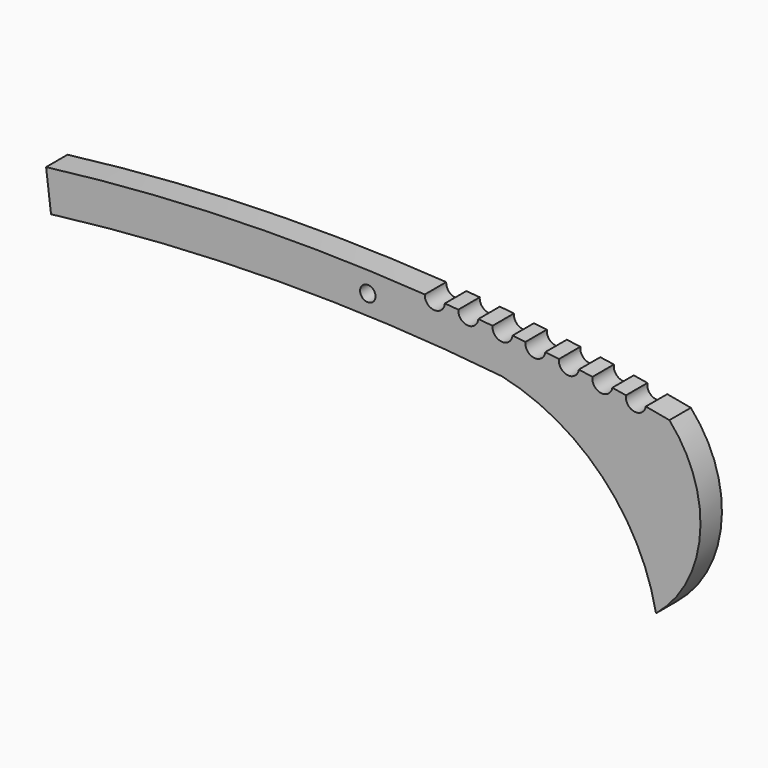
from build123d import *

# Parameters (mm, degrees)
F0_R     = 1.15
F1_DEPTH = 4


with BuildPart() as f1:
    # F0 (on Front) → F1 (new body)
    with BuildSketch(Plane.XZ):
        with BuildLine():
            ThreePointArc((83, -17.020984), (89.584854, -4.43975), (85, 9))
            ThreePointArc((85, 9), (83.239705, 9.329369), (81.477475, 9.648224))
            ThreePointArc((81.477475, 9.648224), (79.744723, 8.429077), (78.521248, 10.158776))
            ThreePointArc((78.521248, 10.158776), (77.501731, 10.327801), (76.481638, 10.493312))
            ThreePointArc((76.481638, 10.493312), (74.769723, 9.245075), (73.51721, 10.953864))
            ThreePointArc((73.51721, 10.953864), (72.501545, 11.104684), (71.48537, 11.252026))
            ThreePointArc((71.48537, 11.252026), (69.794723, 9.97513), (68.513604, 11.662579))
            ThreePointArc((68.513604, 11.662579), (67.501361, 11.795514), (66.488672, 11.925004))
            ThreePointArc((66.488672, 11.925004), (64.819723, 10.619876), (63.510427, 12.285557))
            ThreePointArc((63.510427, 12.285557), (62.551942, 12.395171), (61.59311, 12.501703))
            ThreePointArc((61.59311, 12.501703), (59.945831, 11.169329), (58.609343, 12.813272))
            ThreePointArc((58.609343, 12.813272), (57.551852, 12.916464), (56.494002, 13.015909))
            ThreePointArc((56.494002, 13.015909), (54.869723, 11.655589), (53.505347, 13.276462))
            ThreePointArc((53.505347, 13.276462), (52.500823, 13.35728), (51.496033, 13.434723))
            ThreePointArc((51.496033, 13.434723), (49.894723, 12.04744), (48.50344, 13.645276))
            ThreePointArc((48.50344, 13.645276), (20.212883, 14.156434), (-8, 12))
            Line((-8, 12), (-7.261107, 6.045671))
            ThreePointArc((-7.261107, 6.045671), (26.35243, 8.272106), (60, 6.638735))
            ThreePointArc((60, 6.638735), (75.044992, -1.744979), (83, -17.020984))
        make_face()
        with Locations((40, 11)):
            Circle(F0_R, mode=Mode.SUBTRACT)
    extrude(amount=F1_DEPTH)


solid = f1.part
